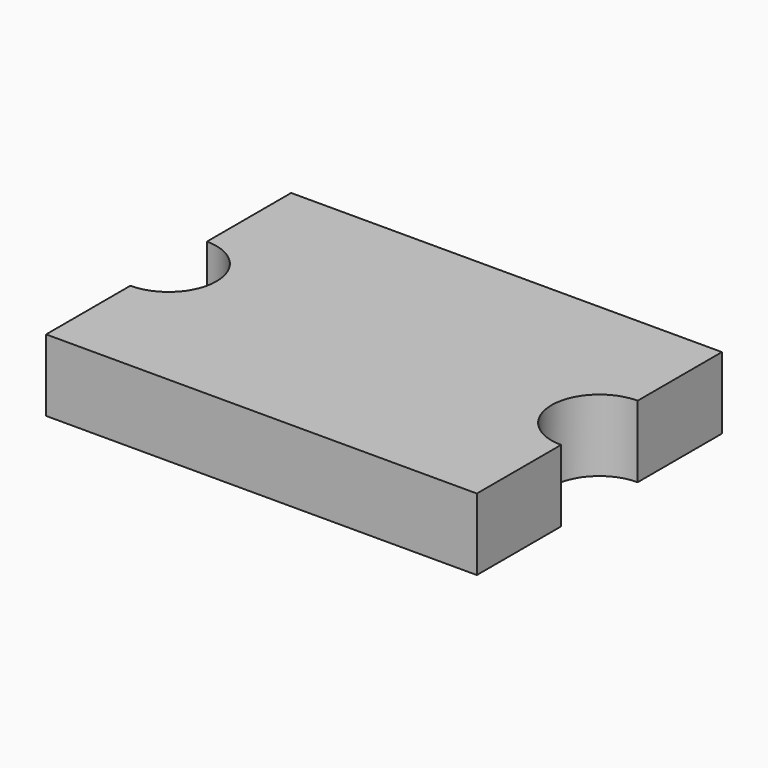
from build123d import *

# Parameters (mm, degrees)
BOX118_W          = 4.5
BOX118_H          = 3.2
BOX118_DEPTH      = 0.75
CYLINDER052_R     = 0.5
CYLINDER052_DEPTH = 1


with BuildPart() as part:
    # Box118 → Box118 (join)
    with BuildSketch(Plane(origin=(-2.25, -1.6, 0.05), x_dir=(1, 0, 0), z_dir=(0, 0, 1))):
        with Locations((2.25, 1.6)):
            Rectangle(BOX118_W, BOX118_H)
    extrude(amount=BOX118_DEPTH)

    # Cylinder052 → Cylinder052 (cut)
    with BuildSketch(Plane(origin=(-2.25, 0, 0), x_dir=(1, 0, 0), z_dir=(0, 0, 1))):
        Circle(CYLINDER052_R)
    cylinder052 = extrude(amount=CYLINDER052_DEPTH, mode=Mode.SUBTRACT)

    # Mirrored002: Cylinder052 across YZ
    add(cylinder052.mirror(Plane.YZ), mode=Mode.SUBTRACT)


solid = part.part
